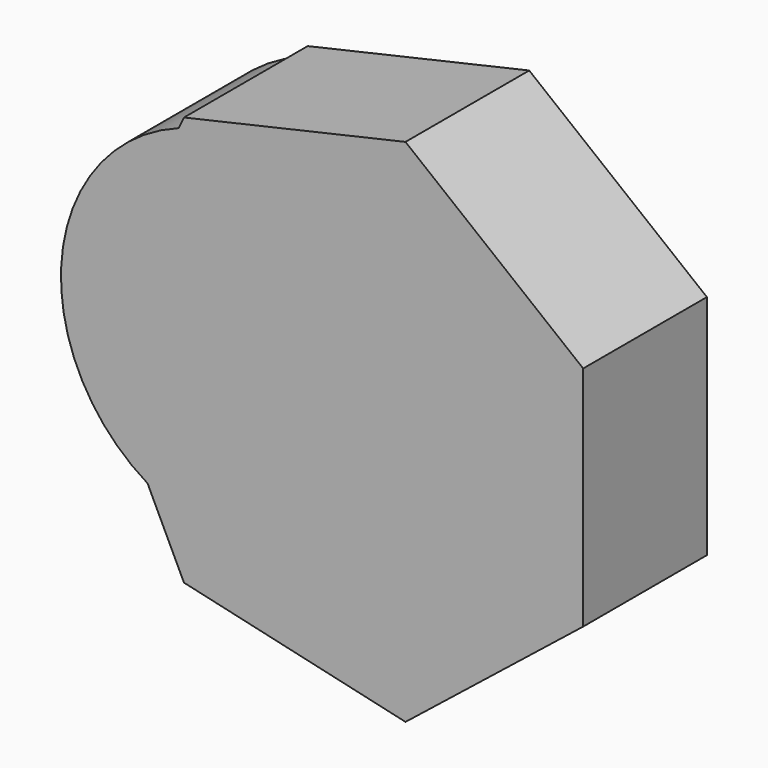
from build123d import *

# Parameters (mm, degrees)
F1_DEPTH = 25.4
F2_DEPTH = 25.4


with BuildPart() as f1:
    # F0 (on Front) → F1 (new body)
    with BuildSketch(Plane.XZ):
        with BuildLine():
            Line((-81.7635867535, 33.4003269672), (-66.4471587845, 65.2052173639))
            ThreePointArc((-66.4471587845, 65.2052173639), (-85.634800889, 40.2953682017), (-71.5468079221, 12.1849671199))
            Line((-71.5468079221, 12.1849671199), (-81.7635867535, 33.4003269672))
        make_face()
        with BuildLine():
            ThreePointArc((-71.5468079221, 12.1849671199), (-41.6928115156, 11.6890026162), (-26.6208039794, 37.4638289213))
            ThreePointArc((-26.6208039794, 37.4638289213), (-39.2917212274, 61.7317252546), (-66.4471587845, 65.2052173639))
            Line((-66.4471587845, 65.2052173639), (-81.7635867535, 33.4003269672))
            Line((-81.7635867535, 33.4003269672), (-71.5468079221, 12.1849671199))
        make_face()
    extrude(amount=F1_DEPTH)

    # F0 (on Front) → F2 (join)
    with BuildSketch(Plane.XZ):
        with BuildLine():
            ThreePointArc((-71.5468079221, 12.1849671199), (-41.6928115156, 11.6890026162), (-26.6208039794, 37.4638289213))
            ThreePointArc((-26.6208039794, 37.4638289213), (-39.2917212274, 61.7317252546), (-66.4471587845, 65.2052173639))
            Line((-66.4471587845, 65.2052173639), (-81.7635867535, 33.4003269672))
            Line((-81.7635867535, 33.4003269672), (-71.5468079221, 12.1849671199))
        make_face()
        with BuildLine():
            ThreePointArc((-66.4471587845, 65.2052173639), (-39.2917212274, 61.7317252546), (-26.6208039794, 37.4638289213))
            ThreePointArc((-26.6208039794, 37.4638289213), (-41.6928115156, 11.6890026162), (-71.5468079221, 12.1849671199))
            Line((-71.5468079221, 12.1849671199), (-65.5693056323, -0.2274442828))
            Line((-65.5693056323, -0.2274442828), (-29.1810862564, -8.5328179001))
            Line((-29.1810862564, -8.5328179001), (0, 14.738321848))
            Line((0, 14.738321848), (0, 52.0623320864))
            Line((0, 52.0623320864), (-29.1810862564, 75.3334718346))
            Line((-29.1810862564, 75.3334718346), (-65.5693056323, 67.0280982173))
            Line((-65.5693056323, 67.0280982173), (-66.4471587845, 65.2052173639))
        make_face()
        with BuildLine():
            Line((-81.7635867535, 33.4003269672), (-66.4471587845, 65.2052173639))
            ThreePointArc((-66.4471587845, 65.2052173639), (-85.634800889, 40.2953682017), (-71.5468079221, 12.1849671199))
            Line((-71.5468079221, 12.1849671199), (-81.7635867535, 33.4003269672))
        make_face()
    extrude(amount=F2_DEPTH)


solid = f1.part
